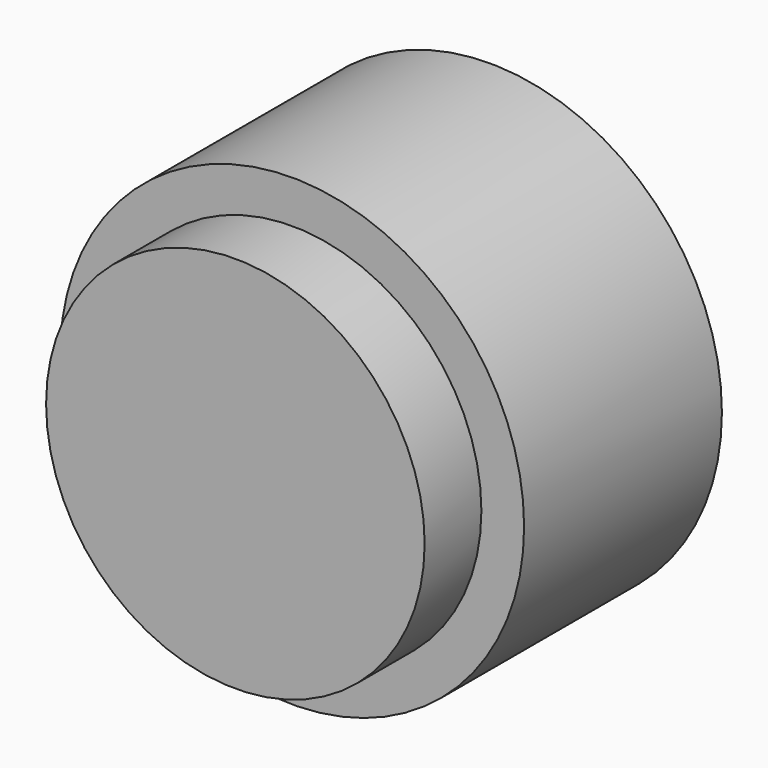
from build123d import *

# Parameters (mm, degrees)
F0_R      = 82
F1_DEPTH  = 147.5
F3_R      = 100.5
F4_DEPTH  = 107.12
F5_R      = 57.15
F6_DEPTH  = 3.2
F7_R      = 11.115
F8_DEPTH  = 47.6
F10_W     = 4.78
F10_H     = 3.384925476
F11_DEPTH = 44.4
F12_R     = 5.55625
F13_DEPTH = 36
F14_R     = 4.7625
F15_DEPTH = 30.48


with BuildPart() as f1:
    # F0 (on Front) → F1 (new body)
    with BuildSketch(Plane.XZ):
        Circle(F0_R)
    extrude(amount=F1_DEPTH)

    # F3 (on offset) → F4 (join)
    with BuildSketch(Plane.XZ.offset(9.652)):
        Circle(F3_R)
    extrude(amount=F4_DEPTH)

    # F5 (on Front) → F6 (join)
    with BuildSketch(Plane.XZ):
        Circle(F5_R)
    extrude(amount=-F6_DEPTH)

    # F7 (on Front) → F8 (join)
    with BuildSketch(Plane.XZ):
        Circle(F7_R)
    extrude(amount=-F8_DEPTH)

    # F10 (on offset) → F11 (cut, through all)
    with BuildSketch(Plane(origin=(0, 47.6, 0), x_dir=(-1, 0, 0), z_dir=(0, 1, 0))):
        with Locations((0, 10.157462738)):
            Rectangle(F10_W, F10_H)
    extrude(amount=-F11_DEPTH, mode=Mode.SUBTRACT)

    # F12 (on offset) → F13 (cut)
    with BuildSketch(Plane(origin=(0, 47.6, 0), x_dir=(-1, 0, 0), z_dir=(0, 1, 0))):
        Circle(F12_R)
    extrude(amount=-F13_DEPTH, mode=Mode.SUBTRACT)

    # F14 (on Front) → F15 (cut)
    with BuildSketch(Plane.XZ):
        with Locations((0, 74.5)):
            Circle(F14_R)
        with Locations((-74.5, 0)):
            Circle(F14_R)
        with Locations((0, -74.5)):
            Circle(F14_R)
        with Locations((74.5, 0)):
            Circle(F14_R)
    extrude(amount=F15_DEPTH, mode=Mode.SUBTRACT)


solid = f1.part
